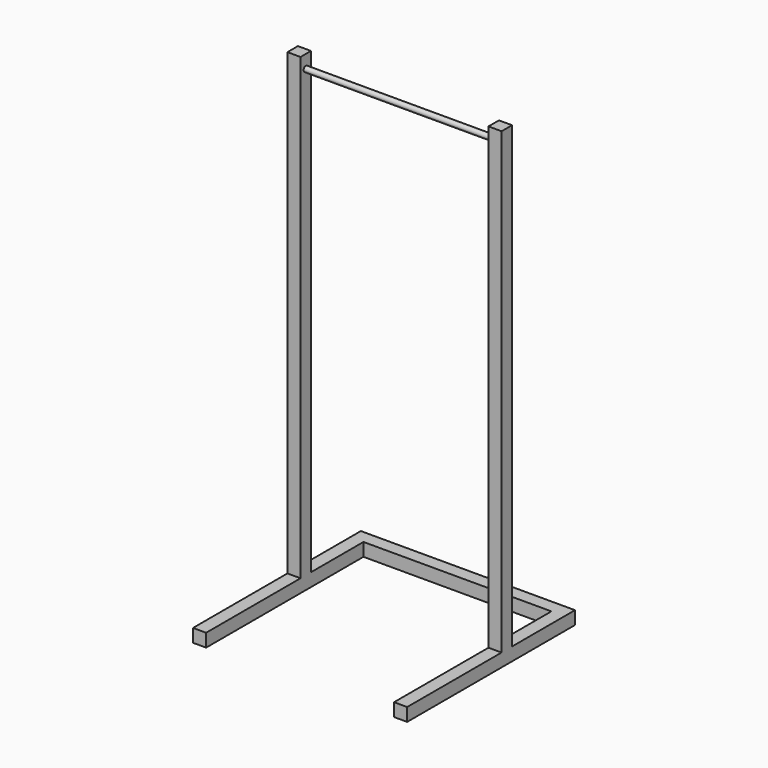
from build123d import *

# Parameters (mm, degrees)
F0_W     = 1244.6
F0_H     = 1219.2
F1_DEPTH = 2743.2
F2_W     = 1092.2
F2_H     = 1143
F3_DEPTH = 2743.201
F4_W     = 1244.6
F4_H     = 457.2
F4_H_2   = 685.8
F5_DEPTH = 2667
F6_R     = 15.875
F7_DEPTH = 1092.2


with BuildPart() as f1:
    # F0 (on Top) → F1 (new body)
    with BuildSketch(Plane.XY):
        Rectangle(F0_W, F0_H)
    extrude(amount=F1_DEPTH)

    # F2 (on face) → F3 (cut, through all)
    with BuildSketch(Plane.XY.offset(2743.2)):
        with Locations((0, -38.1)):
            Rectangle(F2_W, F2_H)
    extrude(amount=-F3_DEPTH, mode=Mode.SUBTRACT)

    # F4 (on face) → F5 (cut)
    with BuildSketch(Plane.XY.offset(2743.2)):
        with Locations((0, 381)):
            Rectangle(F4_W, F4_H)
        with Locations((0, -266.7)):
            Rectangle(F4_W, F4_H_2)
        with Locations((0, -266.7)):
            Rectangle(F4_W, F4_H_2)
    extrude(amount=-F5_DEPTH, mode=Mode.SUBTRACT)

    # F6 (on face) → F7 (join, through all)
    with BuildSketch(Plane.YZ.offset(-546.1)):
        with Locations((114.3, 2667)):
            Circle(F6_R)
    extrude(amount=F7_DEPTH)


solid = f1.part
